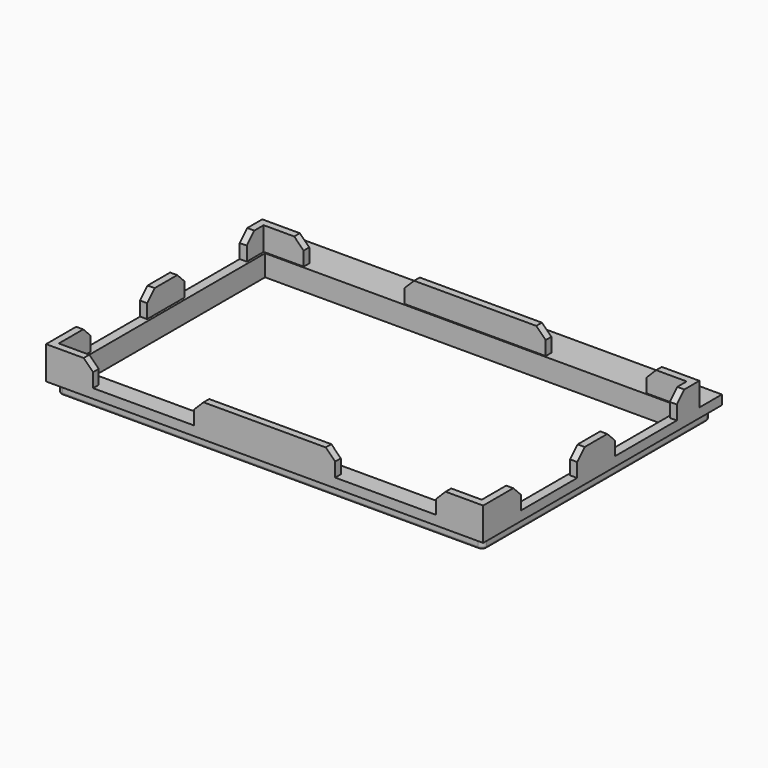
from build123d import *

# Parameters (mm, degrees)
BOX035_W               = 60
BOX035_H               = 3
BOX035_DEPTH           = 11
BOX034_W               = 200
BOX034_H               = 30
BOX034_DEPTH           = 20
BOX033_W               = 60
BOX033_H               = 3
BOX033_DEPTH           = 11
BOX025_W               = 3
BOX025_H               = 20
BOX025_DEPTH           = 11
BOX026_W               = 3
BOX026_H               = 20
BOX026_DEPTH           = 11
BOX024_W               = 30
BOX024_H               = 20
BOX024_DEPTH           = 11
BOX023_W               = 20
BOX023_H               = 20
BOX023_DEPTH           = 11
CUT010_PLACEMENT_ANGLE = 180
BOX032_W               = 30
BOX032_H               = 20
BOX032_DEPTH           = 11
BOX031_W               = 20
BOX031_H               = 20
BOX031_DEPTH           = 11
CUT013_PLACEMENT_ANGLE = 180
BOX030_W               = 30
BOX030_H               = 20
BOX030_DEPTH           = 11
BOX029_W               = 20
BOX029_H               = 20
BOX029_DEPTH           = 11
CUT012_PLACEMENT_ANGLE = 180
BOX022_W               = 30
BOX022_H               = 20
BOX022_DEPTH           = 11
BOX021_W               = 20
BOX021_H               = 20
BOX021_DEPTH           = 11
CHAMFER006_SIZE        = 4
BOX018_W               = 178
BOX018_H               = 103.5
BOX018_DEPTH           = 30
BOX019_W               = 181
BOX019_H               = 121
BOX019_DEPTH           = 5
BOX017_W               = 186
BOX017_H               = 127
BOX017_DEPTH           = 4
FILLET008_R            = 2
FILLET009_R            = 1


with BuildPart() as cube032:
    # Box035 → Box035 (new body)
    with BuildSketch(Plane(origin=(63, 0, 4), x_dir=(1, 0, 0), z_dir=(0, 0, 1))):
        with Locations((30, 1.5)):
            Rectangle(BOX035_W, BOX035_H)
    extrude(amount=BOX035_DEPTH)


with BuildPart() as cube031:
    # Box034 → Box034 (new body)
    with BuildSketch(Plane(origin=(-10, 73, -5), x_dir=(1, 0, 0), z_dir=(0, 0, 1))):
        with Locations((100, 15)):
            Rectangle(BOX034_W, BOX034_H)
    extrude(amount=BOX034_DEPTH)


with BuildPart() as cube030:
    # Box033 → Box033 (new body)
    with BuildSketch(Plane(origin=(63, 112, 4), x_dir=(1, 0, 0), z_dir=(0, 0, 1))):
        with Locations((30, 1.5)):
            Rectangle(BOX033_W, BOX033_H)
    extrude(amount=BOX033_DEPTH)


with BuildPart() as cube022:
    # Box025 → Box025 (new body)
    with BuildSketch(Plane(origin=(0, 50, 4), x_dir=(1, 0, 0), z_dir=(0, 0, 1))):
        with Locations((1.5, 10)):
            Rectangle(BOX025_W, BOX025_H)
    extrude(amount=BOX025_DEPTH)


with BuildPart() as cube023:
    # Box026 → Box026 (new body)
    with BuildSketch(Plane(origin=(183, 50, 4), x_dir=(1, 0, 0), z_dir=(0, 0, 1))):
        with Locations((1.5, 10)):
            Rectangle(BOX026_W, BOX026_H)
    extrude(amount=BOX026_DEPTH)


with BuildPart() as cube021:
    # Box024 → Box024 (new body)
    with BuildSketch(Plane(origin=(3, 3, 0), x_dir=(1, 0, 0), z_dir=(0, 0, 1))):
        with Locations((15, 10)):
            Rectangle(BOX024_W, BOX024_H)
    extrude(amount=BOX024_DEPTH)


with BuildPart() as cut010:
    # Box023 → Box023 (new body)
    with BuildSketch(Plane.XY):
        with Locations((10, 10)):
            Rectangle(BOX023_W, BOX023_H)
    extrude(amount=BOX023_DEPTH)

    # Cut010: cut Cube021
    add(cube021.part, mode=Mode.SUBTRACT)


with BuildPart() as cut010_1:
    # Cut010 placement: moved
    add(cut010.part.moved(Location((186, 0, 15))).rotate(Axis((186, 0, 15), (0, 1, 0)), CUT010_PLACEMENT_ANGLE))


with BuildPart() as cube029:
    # Box032 → Box032 (new body)
    with BuildSketch(Plane(origin=(3, 3, 0), x_dir=(1, 0, 0), z_dir=(0, 0, 1))):
        with Locations((15, 10)):
            Rectangle(BOX032_W, BOX032_H)
    extrude(amount=BOX032_DEPTH)


with BuildPart() as cut013:
    # Box031 → Box031 (new body)
    with BuildSketch(Plane.XY):
        with Locations((10, 10)):
            Rectangle(BOX031_W, BOX031_H)
    extrude(amount=BOX031_DEPTH)

    # Cut013: cut Cube029
    add(cube029.part, mode=Mode.SUBTRACT)


with BuildPart() as cut013_1:
    # Cut013 placement: moved
    add(cut013.part.moved(Location((186, 115, 4))).rotate(Axis((186, 115, 4), (0, 0, 1)), CUT013_PLACEMENT_ANGLE))


with BuildPart() as cube027:
    # Box030 → Box030 (new body)
    with BuildSketch(Plane(origin=(3, 3, 0), x_dir=(1, 0, 0), z_dir=(0, 0, 1))):
        with Locations((15, 10)):
            Rectangle(BOX030_W, BOX030_H)
    extrude(amount=BOX030_DEPTH)


with BuildPart() as cut012:
    # Box029 → Box029 (new body)
    with BuildSketch(Plane.XY):
        with Locations((10, 10)):
            Rectangle(BOX029_W, BOX029_H)
    extrude(amount=BOX029_DEPTH)

    # Cut012: cut Cube027
    add(cube027.part, mode=Mode.SUBTRACT)


with BuildPart() as cut012_1:
    # Cut012 placement: moved
    add(cut012.part.moved(Location((0, 115, 15))).rotate(Axis((0, 115, 15), (1, 0, 0)), CUT012_PLACEMENT_ANGLE))


with BuildPart() as cube019:
    # Box022 → Box022 (new body)
    with BuildSketch(Plane(origin=(3, 3, 0), x_dir=(1, 0, 0), z_dir=(0, 0, 1))):
        with Locations((15, 10)):
            Rectangle(BOX022_W, BOX022_H)
    extrude(amount=BOX022_DEPTH)


with BuildPart() as chamfer006:
    # Box021 → Box021 (new body)
    with BuildSketch(Plane.XY):
        with Locations((10, 10)):
            Rectangle(BOX021_W, BOX021_H)
    extrude(amount=BOX021_DEPTH)

    # Cut009: cut Cube019
    add(cube019.part, mode=Mode.SUBTRACT)


with BuildPart() as chamfer006_1:
    # Cut009 placement: moved
    add(chamfer006.part.moved(Location((0, 0, 4))))

    # Fusion014: union Cube022, Cube023, Cut010, Cut013, Cut012
    add(cube022.part)
    add(cube023.part)
    add(cut010_1.part)
    add(cut013_1.part)
    add(cut012_1.part)

    # Fusion015: union Cube030
    add(cube030.part)

    # Cut014: cut Cube031
    add(cube031.part, mode=Mode.SUBTRACT)

    # Fusion016: union Cube032
    add(cube032.part)

    # Chamfer006
    chamfer006_edges = [chamfer006_1.edges().sort_by_distance(p)[0] for p in [
        (184.5, 20, 15),
        (166, 1.5, 15),
        (63, 113.5, 15),
        (123, 113.5, 15),
        (1.5, 103, 15),
        (20, 113.5, 15),
        (184.5, 50, 15),
        (184.5, 70, 15),
        (184.5, 103, 15),
        (166, 113.5, 15),
        (63, 1.5, 15),
        (123, 1.5, 15),
        (1.5, 50, 15),
        (1.5, 70, 15),
        (1.5, 20, 15),
        (20, 1.5, 15),
    ]]
    chamfer(chamfer006_edges, length=CHAMFER006_SIZE)


with BuildPart() as chamfer006_2:
    # Chamfer006 placement: moved
    add(chamfer006_1.part.moved(Location((0, 0, -1))))


with BuildPart() as cutout:
    # Box018 → Box018 (new body)
    with BuildSketch(Plane(origin=(4, 8, -25), x_dir=(1, 0, 0), z_dir=(0, 0, 1))):
        with Locations((89, 51.75)):
            Rectangle(BOX018_W, BOX018_H)
    extrude(amount=BOX018_DEPTH)


with BuildPart() as cube016:
    # Box019 → Box019 (new body)
    with BuildSketch(Plane(origin=(2.5, 3, -5), x_dir=(1, 0, 0), z_dir=(0, 0, 1))):
        with Locations((90.5, 60.5)):
            Rectangle(BOX019_W, BOX019_H)
    extrude(amount=BOX019_DEPTH)


with BuildPart() as fascia_modified:
    # Box017 → Box017 (new body)
    with BuildSketch(Plane.XY):
        with Locations((93, 63.5)):
            Rectangle(BOX017_W, BOX017_H)
    extrude(amount=BOX017_DEPTH)

    # Fusion007: union Cube016
    add(cube016.part)

    # Cut007: cut Cutout
    add(cutout.part, mode=Mode.SUBTRACT)

    # Fillet008
    fillet008_edges = [fascia_modified.edges().sort_by_distance(p)[0] for p in [
        (183.5, 124, -2.5),
        (2.5, 124, -2.5),
        (2.5, 3, -2.5),
        (183.5, 3, -2.5),
    ]]
    fillet(fillet008_edges, radius=FILLET008_R)

    # Fillet009
    fillet009_edges = [fascia_modified.edges().sort_by_distance(p)[0] for p in [
        (93, 124, -5),
        (3.085786, 123.414214, -5),
        (182.914214, 123.414214, -5),
        (2.5, 63.5, -5),
        (183.5, 63.5, -5),
        (3.085786, 3.585786, -5),
        (182.914214, 3.585786, -5),
        (93, 3, -5),
    ]]
    fillet(fillet009_edges, radius=FILLET009_R)

    # Fusion017: union Chamfer006
    add(chamfer006_2.part)


solid = fascia_modified.part
